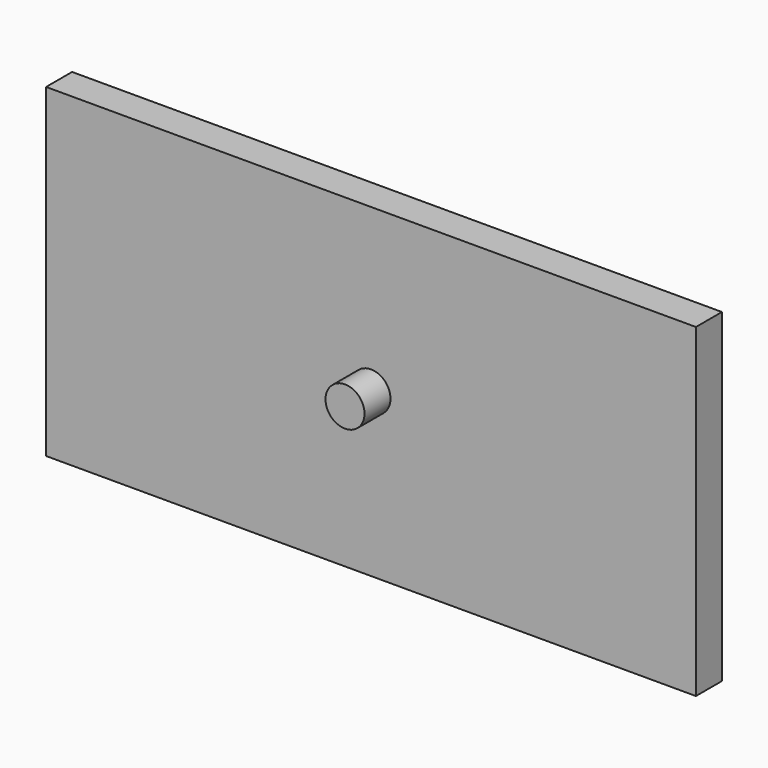
from build123d import *

# Parameters (mm, degrees)
F0_W     = 100
F0_H     = 50
F0_R     = 3
F1_DEPTH = 5
F2_DEPTH = 10


with BuildPart() as f1:
    # F0 (on Front) → F1 (new body)
    with BuildSketch(Plane.XZ):
        Rectangle(F0_W, F0_H)
        Circle(F0_R, mode=Mode.SUBTRACT)
        Circle(F0_R)
    extrude(amount=F1_DEPTH)

    # F0 (on Front) → F2 (join)
    with BuildSketch(Plane.XZ):
        Circle(F0_R)
    extrude(amount=F2_DEPTH)


solid = f1.part
